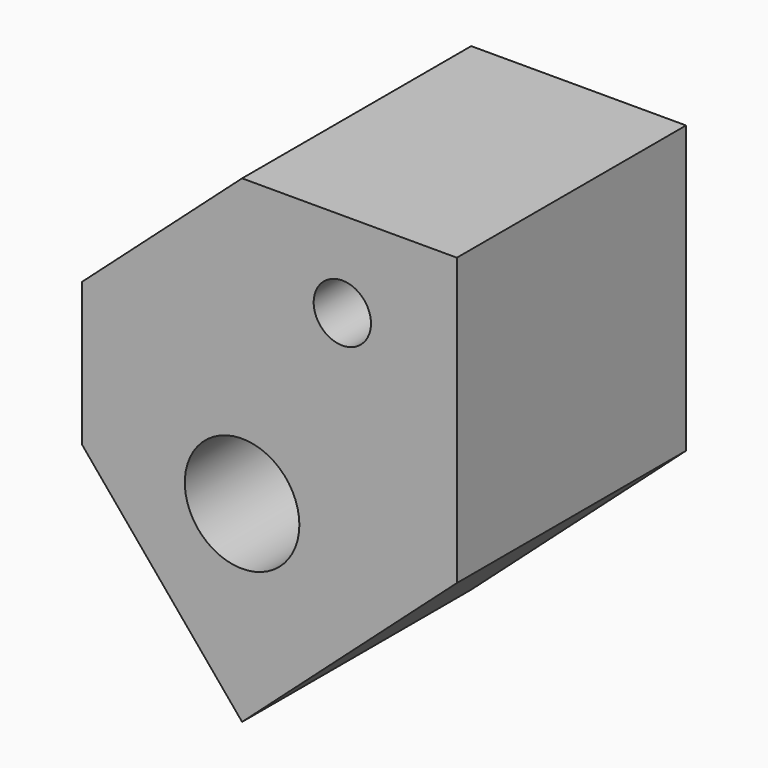
from build123d import *

# Parameters (mm, degrees)
F1_DEPTH      = 25.4
F1_DEPTH_BACK = 25.4
F2_R          = 10.16
F2_R_2        = 5.08
F3_DEPTH      = 50.801


with BuildPart() as f1:
    # F0 (on Front) → F1 (new body, two sides)
    with BuildSketch(Plane.XZ) as f1_sk:
        Polygon((-28.398063, 25.4), (-28.398063, 0), (0, -34.077676), (38.1, 0), (38.1, 50.8), (0, 50.8), align=None)
    extrude(amount=F1_DEPTH)
    extrude(f1_sk.sketch, amount=-F1_DEPTH_BACK)

    # F2 (on face) → F3 (cut, through all)
    with BuildSketch(Plane.XZ.offset(25.4)):
        Circle(F2_R)
        with Locations((17.78, 35.56)):
            Circle(F2_R_2)
    extrude(amount=-F3_DEPTH, mode=Mode.SUBTRACT)


solid = f1.part
